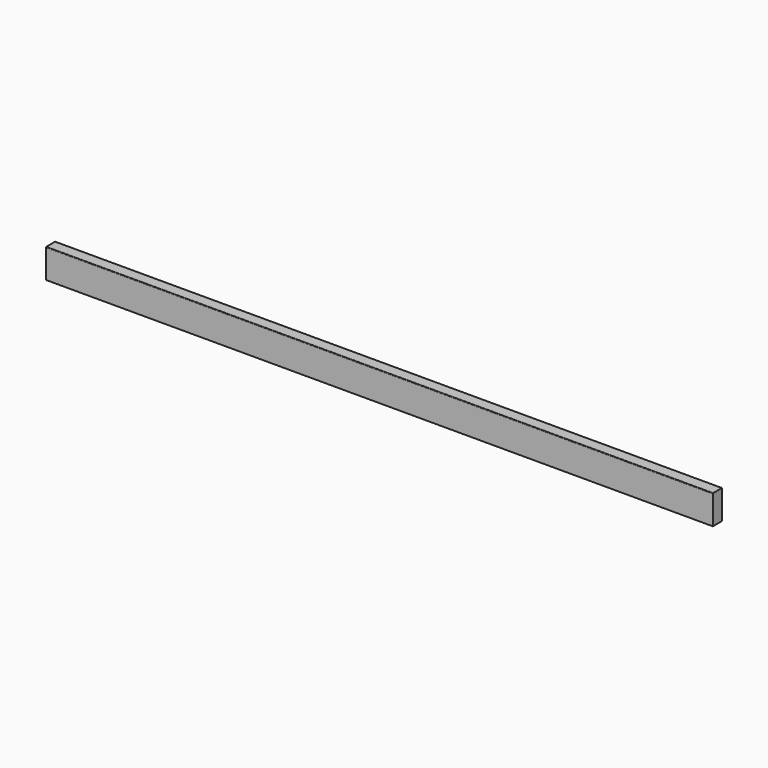
from build123d import *

# Parameters (mm, degrees)
BOX_W     = 1120
BOX_H     = 19
BOX_DEPTH = 49
FILLET_R  = 1


with BuildPart() as part:
    # Box → Box (new body)
    with BuildSketch(Plane.XY):
        with Locations((560, 9.5)):
            Rectangle(BOX_W, BOX_H)
    extrude(amount=BOX_DEPTH)

    # Fillet
    fillet_edges = [part.edges().sort_by_distance(p)[0] for p in [
        (560, 0, 49),
    ]]
    fillet(fillet_edges, radius=FILLET_R)


solid = part.part
